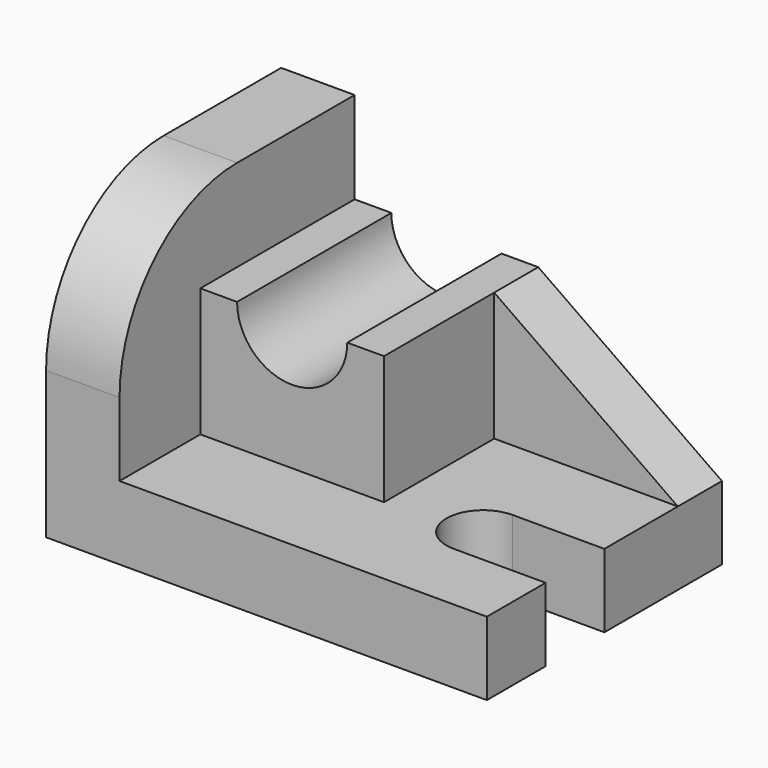
from build123d import *

# Parameters (mm, degrees)
F0_W          = 16
F0_H          = 48
F1_DEPTH      = 64
F2_R          = 32
F4_DEPTH      = 16
F3_W          = 40
F3_H          = 42
F5_DEPTH      = 28
F7_DEPTH      = 42
F7_DEPTH_BACK = 25
F9_DEPTH      = 12


with BuildPart() as f1:
    # F0 (on Front) → F1 (new body)
    with BuildSketch(Plane.XZ):
        with Locations((-33.2620320469, 0.3745286972)):
            Rectangle(F0_W, F0_H)
        Polygon((-25.2620320469, -23.6254713028), (-41.2620320469, -23.6254713028), (-41.2620320469, -39.6254713028), (54.7379679531, -39.6254713028), (54.7379679531, -23.6254713028), align=None)
    extrude(amount=F1_DEPTH)

    # F2
    f2_edges = [f1.edges().sort_by_distance(p)[0] for p in [
        (-33.262032, -64, 24.374529),
    ]]
    fillet(f2_edges, radius=F2_R)

    # F3 (on face) → F4 (cut, through all)
    with BuildSketch(Plane.XY.offset(-23.6254713028)):
        with BuildLine():
            Line((54.7379679531, -32), (34.7379679531, -32))
            ThreePointArc((34.7379679531, -32), (26.7379679531, -40), (34.7379679531, -48))
            Line((34.7379679531, -48), (54.7379679531, -48))
            Line((54.7379679531, -48), (54.7379679531, -32))
        make_face()
    extrude(amount=-F4_DEPTH, mode=Mode.SUBTRACT)

    # F3 (on face) → F5 (join)
    with BuildSketch(Plane.XY.offset(-23.6254713028)):
        with Locations((-5.2620320469, -21)):
            Rectangle(F3_W, F3_H)
    extrude(amount=F5_DEPTH)

    # F6 (on face) → F7 (cut, two sides)
    with BuildSketch(Plane.XZ.offset(42)) as f7_sk:
        with BuildLine():
            ThreePointArc((-17.2620320469, 4.3745286972), (-5.2620320469, -7.6254713028), (6.7379679531, 4.3745286972))
            Line((6.7379679531, 4.3745286972), (-17.2620320469, 4.3745286972))
        make_face()
    extrude(amount=-F7_DEPTH, mode=Mode.SUBTRACT)
    extrude(f7_sk.sketch, amount=F7_DEPTH_BACK, mode=Mode.SUBTRACT)

    # F8 (on face) → F9 (join)
    with BuildSketch(Plane(origin=(0, 0, 0), x_dir=(-1, 0, 0), z_dir=(0, 1, 0))):
        Polygon((-14.7379679531, -23.6254713028), (-14.7379679531, 4.3745286972), (-54.7379679531, -23.6254713028), align=None)
    extrude(amount=-F9_DEPTH)


solid = f1.part
